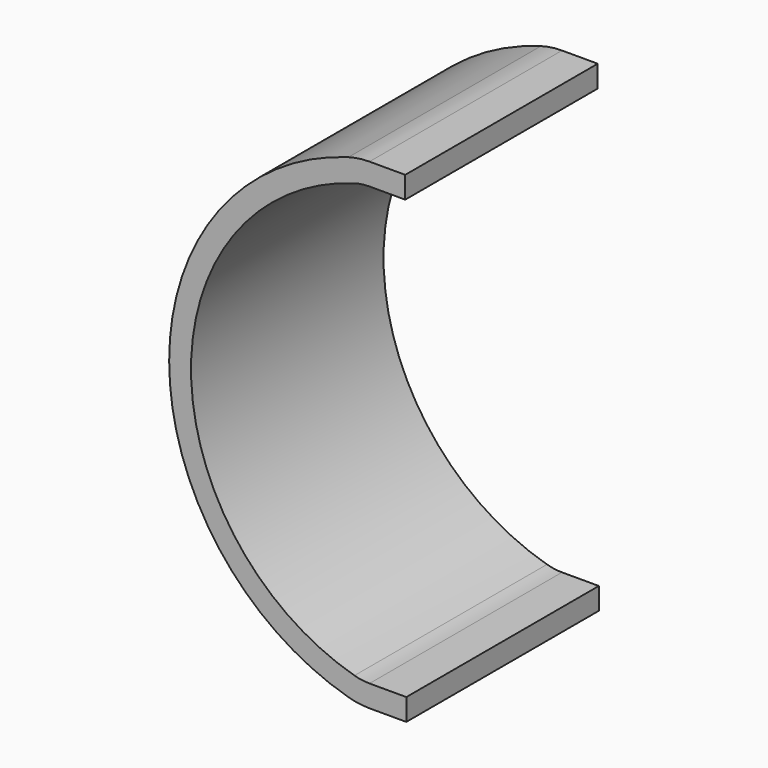
from build123d import *

# Parameters (mm, degrees)
F2_W = 27.94
F2_H = 2.54


with BuildPart() as f3:
    # F3: sweep along a path in F1
    with BuildLine(Plane.XZ) as f3_path:
        Line((5.1285554655, 26.67), (0.9789576646, 26.67))
        ThreePointArc((0.9789576646, 26.67), (-0.0777462092, 26.596375085), (-1.1140302056, 26.3769230769))
        ThreePointArc((-1.1140302056, 26.3769230769), (-21.0112738728, 0), (-1.1140302056, -26.3769230769))
        ThreePointArc((-1.1140302056, -26.3769230769), (-0.0777462092, -26.596375085), (0.9789576646, -26.67))
        Line((0.9789576646, -26.67), (5.2558323368, -26.67))
    # F2 (on offset) → F3 (sweep)
    with BuildSketch(Plane.YZ.offset(5.08)):
        with Locations((0, 26.67)):
            Rectangle(F2_W, F2_H)
    sweep(path=f3_path.line)


solid = f3.part
